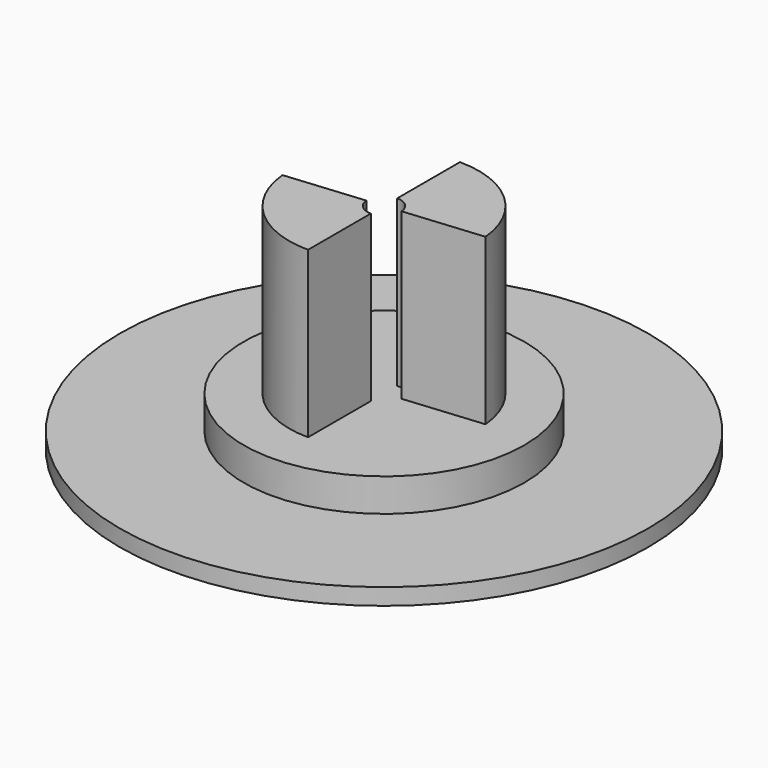
from build123d import *

# Parameters (mm, degrees)
F0_R     = 16
F1_DEPTH = 1
F2_R     = 8.5
F3_DEPTH = 2
F4_R     = 5.75
F5_DEPTH = 10
F7_DEPTH = 10


with BuildPart() as f1:
    # F0 (on Top) → F1 (new body)
    with BuildSketch(Plane.XY):
        Circle(F0_R)
    extrude(amount=F1_DEPTH)

    # F2 (on face) → F3 (join)
    with BuildSketch(Plane.XY.offset(1)):
        Circle(F2_R)
    extrude(amount=F3_DEPTH)

    # F4 (on face) → F5 (join)
    with BuildSketch(Plane.XY.offset(3)):
        Circle(F4_R)
    extrude(amount=F5_DEPTH)

    # F6 (on face) → F7 (cut)
    with BuildSketch(Plane.XY.offset(13)):
        with BuildLine():
            Line((0, 1), (0, 5.75))
            ThreePointArc((0, 5.75), (-4.25, 3.872983), (-5.72528, -0.532609))
            Line((-5.72528, -0.532609), (-0.995701, -0.092628))
            ThreePointArc((-0.995701, -0.092628), (-0.673562, -0.73913), (0, -1))
            Line((0, -1), (0, -5.75))
            ThreePointArc((0, -5.75), (4.25, -3.872983), (5.72528, 0.532609))
            Line((5.72528, 0.532609), (0.995701, 0.092628))
            ThreePointArc((0.995701, 0.092628), (0.673562, 0.73913), (0, 1))
        make_face()
    extrude(amount=-F7_DEPTH, mode=Mode.SUBTRACT)


solid = f1.part
